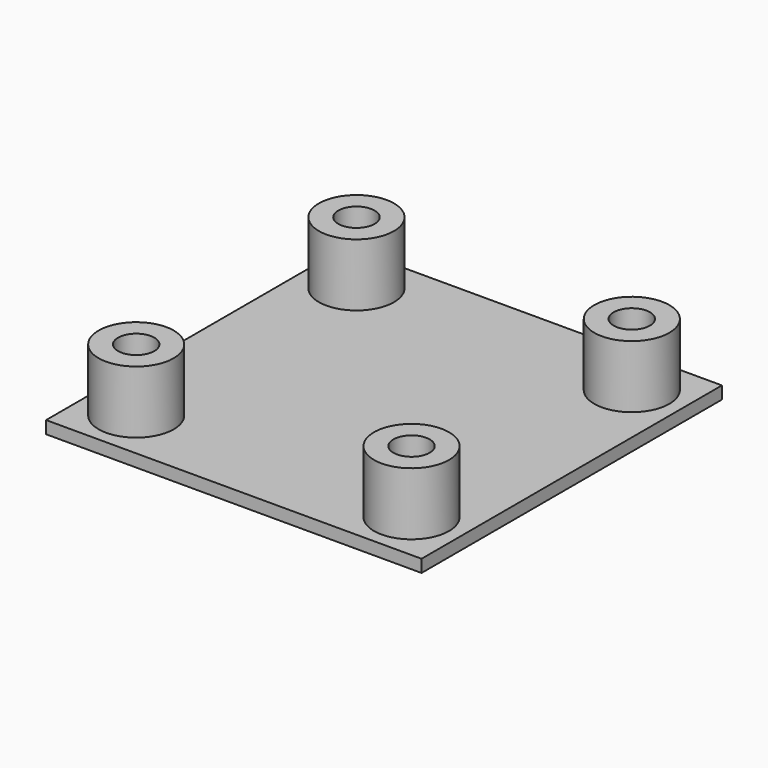
from build123d import *

# Parameters (mm, degrees)
BOX006_W      = 30
BOX006_H      = 30
BOX006_DEPTH  = 1
TUBE_R        = 3
TUBE_R_2      = 1.45
TUBE_DEPTH    = 5
TUBE001_R     = 3
TUBE001_R_2   = 1.45
TUBE001_DEPTH = 5
TUBE002_R     = 3
TUBE002_R_2   = 1.45
TUBE002_DEPTH = 5
TUBE003_R     = 3
TUBE003_R_2   = 1.45
TUBE003_DEPTH = 5


with BuildPart() as cube:
    # Box006 → Box006 (new body)
    with BuildSketch(Plane.XY):
        with Locations((15, 15)):
            Rectangle(BOX006_W, BOX006_H)
    extrude(amount=BOX006_DEPTH)


with BuildPart() as tube:
    # Tube → Tube (new body)
    with BuildSketch(Plane(origin=(4, 4, 1), x_dir=(1, 0, 0), z_dir=(0, 0, 1))):
        Circle(TUBE_R)
        Circle(TUBE_R_2, mode=Mode.SUBTRACT)
    extrude(amount=TUBE_DEPTH)


with BuildPart() as tube001:
    # Tube001 → Tube001 (new body)
    with BuildSketch(Plane(origin=(26, 4, 1), x_dir=(1, 0, 0), z_dir=(0, 0, 1))):
        Circle(TUBE001_R)
        Circle(TUBE001_R_2, mode=Mode.SUBTRACT)
    extrude(amount=TUBE001_DEPTH)


with BuildPart() as tube002:
    # Tube002 → Tube002 (new body)
    with BuildSketch(Plane(origin=(26, 26, 1), x_dir=(1, 0, 0), z_dir=(0, 0, 1))):
        Circle(TUBE002_R)
        Circle(TUBE002_R_2, mode=Mode.SUBTRACT)
    extrude(amount=TUBE002_DEPTH)


with BuildPart() as h_bridge_mount:
    # Tube003 → Tube003 (new body)
    with BuildSketch(Plane(origin=(4, 26, 1), x_dir=(1, 0, 0), z_dir=(0, 0, 1))):
        Circle(TUBE003_R)
        Circle(TUBE003_R_2, mode=Mode.SUBTRACT)
    extrude(amount=TUBE003_DEPTH)

    # Fusion003: union Cube, Tube, Tube001, Tube002
    add(cube.part)
    add(tube.part)
    add(tube001.part)
    add(tube002.part)


with BuildPart() as h_bridge_mount001:
    # Clone base: copy of H Bridge Mount
    add(h_bridge_mount.part)


solid = Compound([h_bridge_mount.part, h_bridge_mount001.part])
